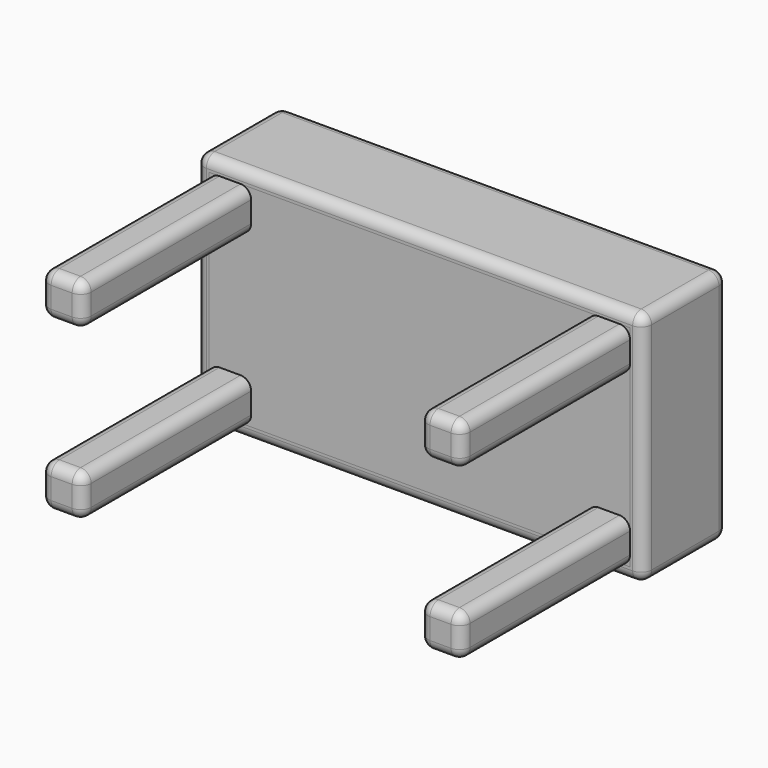
from build123d import *

# Parameters (mm, degrees)
F1_DEPTH = 25.4
F0_W     = 20.32
F0_H     = 20.32
F2_DEPTH = 127
F0_H_2   = 60.96
F0_W_2   = 81.28
F3_DEPTH = 25.4
F4_R     = 5.08
F5_R     = 5.08


with BuildPart() as f1:
    # F0 (on Front) → F1 (new body, symmetric)
    with BuildSketch(Plane.XZ):
        Polygon((81.28, -50.8), (0, -50.8), (0, -57.15), (107.95, -57.15), (107.95, 57.15), (0, 57.15), (0, 50.8), (81.28, 50.8), (101.6, 50.8), (101.6, 30.48), (101.6, -30.48), (101.6, -50.8), align=None)
        Polygon((-81.28, -50.8), (-101.6, -50.8), (-101.6, -30.48), (-101.6, 30.48), (-101.6, 50.8), (-81.28, 50.8), (0, 50.8), (0, 57.15), (-107.95, 57.15), (-107.95, -57.15), (0, -57.15), (0, -50.8), align=None)
    extrude(amount=F1_DEPTH, both=True)

    # F4
    f4_edges = [f1.edges().sort_by_distance(p)[0] for p in [
        (107.95, 25.4, 0),
        (0, 25.4, -57.15),
        (0, 25.4, 57.15),
        (-107.95, 25.4, 0),
        (0, -25.4, -57.15),
        (-107.95, -25.4, 0),
        (0, -25.4, 57.15),
        (107.95, -25.4, 0),
        (107.95, 0, 57.15),
        (107.95, 0, -57.15),
        (-107.95, 0, 57.15),
        (-107.95, 0, -57.15),
    ]]
    fillet(f4_edges, radius=F4_R)


with BuildPart() as f2:
    # F0 (on Front) → F2 (new body)
    with BuildSketch(Plane.XZ):
        with Locations((-91.44, 40.64)):
            Rectangle(F0_W, F0_H)
        with Locations((-91.44, -40.64)):
            Rectangle(F0_W, F0_H)
        with Locations((91.44, -40.64)):
            Rectangle(F0_W, F0_H)
        with Locations((91.44, 40.64)):
            Rectangle(F0_W, F0_H)
    extrude(amount=F2_DEPTH)

    # F5
    f5_edges = [f2.edges().sort_by_distance(p)[0] for p in [
        (-81.28, -63.5, -50.8),
        (-81.28, -63.5, -30.48),
        (-101.6, -63.5, -50.8),
        (-101.6, -63.5, -30.48),
        (-91.44, 0, -50.8),
        (-101.6, 0, -40.64),
        (-91.44, 0, -30.48),
        (-81.28, -127, -40.64),
        (-91.44, -127, -50.8),
        (-91.44, -127, -30.48),
        (-101.6, -127, -40.64),
        (-81.28, 0, -40.64),
        (-81.28, -63.5, 50.8),
        (-101.6, -63.5, 30.48),
        (-91.44, 0, 30.48),
        (-81.28, -63.5, 30.48),
        (-81.28, 0, 40.64),
        (-91.44, 0, 50.8),
        (-101.6, -63.5, 50.8),
        (-101.6, 0, 40.64),
        (-81.28, -127, 40.64),
        (-91.44, -127, 30.48),
        (-91.44, -127, 50.8),
        (-101.6, -127, 40.64),
        (81.28, -63.5, 30.48),
        (101.6, -63.5, 30.48),
        (91.44, -127, 50.8),
        (101.6, -63.5, 50.8),
        (81.28, -127, 40.64),
        (91.44, -127, 30.48),
        (81.28, -63.5, 50.8),
        (101.6, -127, 40.64),
        (101.6, 0, 40.64),
        (91.44, 0, 30.48),
        (91.44, 0, -50.8),
        (81.28, -63.5, -30.48),
        (91.44, -127, -30.48),
        (101.6, -63.5, -30.48),
        (101.6, -63.5, -50.8),
        (91.44, 0, -30.48),
        (101.6, 0, -40.64),
        (81.28, 0, -40.64),
        (101.6, -127, -40.64),
        (91.44, -127, -50.8),
        (81.28, -63.5, -50.8),
        (81.28, -127, -40.64),
    ]]
    fillet(f5_edges, radius=F5_R)


with BuildPart() as f3:
    # F0 (on Front) → F3 (new body)
    with BuildSketch(Plane.XZ):
        with Locations((-91.44, 0)):
            Rectangle(F0_W, F0_H_2)
        with Locations((-40.64, 40.64)):
            Rectangle(F0_W_2, F0_H)
        with Locations((40.64, 40.64)):
            Rectangle(F0_W_2, F0_H)
        with Locations((91.44, 0)):
            Rectangle(F0_W, F0_H_2)
        with Locations((40.64, -40.64)):
            Rectangle(F0_W_2, F0_H)
        with Locations((-40.64, -40.64)):
            Rectangle(F0_W_2, F0_H)
        with Locations((40.64, 0)):
            Rectangle(F0_W_2, F0_H_2)
        with Locations((-40.64, 0)):
            Rectangle(F0_W_2, F0_H_2)
        with Locations((-91.44, 40.64)):
            Rectangle(F0_W, F0_H)
        with Locations((-91.44, -40.64)):
            Rectangle(F0_W, F0_H)
        with Locations((91.44, 40.64)):
            Rectangle(F0_W, F0_H)
        with Locations((91.44, -40.64)):
            Rectangle(F0_W, F0_H)
    extrude(amount=F3_DEPTH)


solid = Compound([f1.part, f2.part, f3.part])
